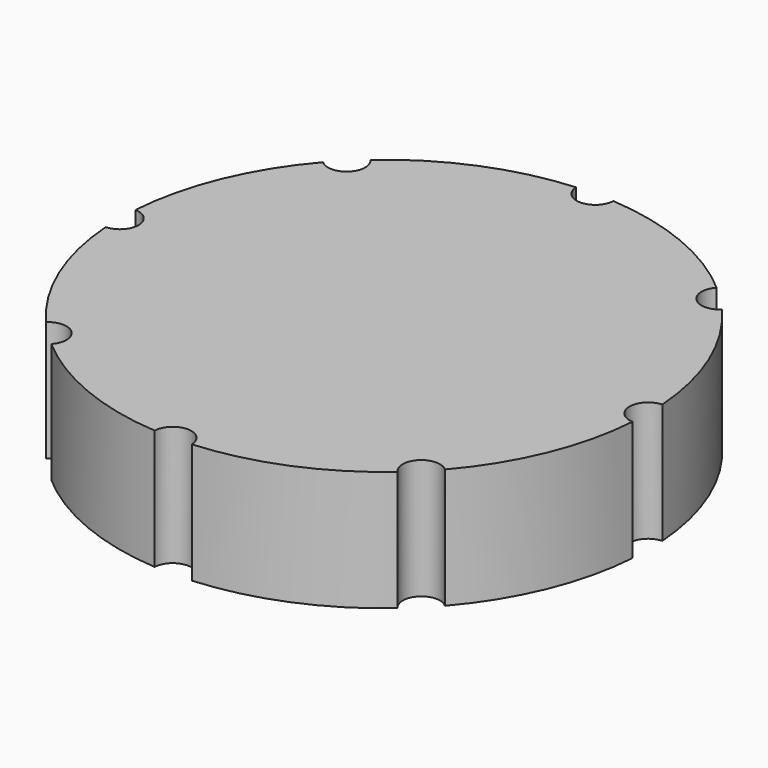
from build123d import *

# Parameters (mm, degrees)
SKETCH004_W        = 3.5
SKETCH004_H        = 9
POCKET001_DEPTH    = 8
SKETCH005_W        = 10
SKETCH005_H        = 5.5
POCKET002_DEPTH    = 7
SKETCH007_R        = 1.55
POCKET003_DEPTH    = 142.723477
POLARPATTERN_COUNT = 8


with BuildPart() as part:
    # Sketch → Revolution (revolve)
    with BuildSketch(Plane.XZ):
        Polygon((-18.3, 4.8), (-22, 4.8), (-22, 14.8), (0, 14.8), (0, 0), (-9.5, 0), (-9.5, 12.8), (-16.6, 12.8), (-16.6, 11.8), (-18.3, 11.8), align=None)
    revolve(axis=Axis((0, 0, 0), (0, 0, 1)))

    # Sketch004 (on Face4 of Revolution) → Pocket001 (cut)
    with BuildSketch(Plane(origin=(0, 0, 0), x_dir=(1, 0, 0), z_dir=(0, 0, -1))):
        Rectangle(SKETCH004_W, SKETCH004_H)
    extrude(amount=-POCKET001_DEPTH, mode=Mode.SUBTRACT)

    # Sketch005 (on Face9 of Pocket001) → Pocket002 (cut)
    with BuildSketch(Plane(origin=(0, 0, 0), x_dir=(1, 0, 0), z_dir=(0, 0, -1))):
        Rectangle(SKETCH005_W, SKETCH005_H)
    extrude(amount=-POCKET002_DEPTH, mode=Mode.SUBTRACT)

    # Sketch007 (on Face5 of Pocket002) → Pocket003 (cut, through all)
    with BuildSketch(Plane(origin=(0, 0, 14.8), x_dir=(-1, 0, 0), z_dir=(0, 0, 1))):
        with Locations((-22, 0)):
            Circle(SKETCH007_R)
    pocket003 = extrude(amount=-POCKET003_DEPTH, mode=Mode.SUBTRACT)

    # PolarPattern: Pocket003 ×8 about axis
    polarpattern_axis = Axis((0, 0, 0), (0, 0, 1))
    for i in range(1, POLARPATTERN_COUNT):
        add(pocket003.rotate(polarpattern_axis, i * 360 / POLARPATTERN_COUNT), mode=Mode.SUBTRACT)


solid = part.part
